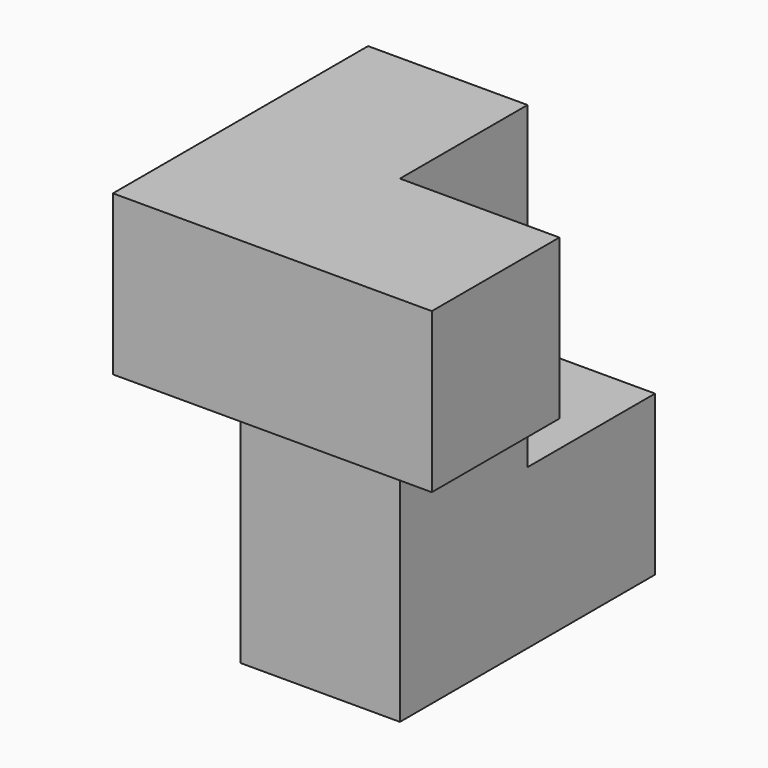
from build123d import *

# Parameters (mm, degrees)
F0_W     = 19.05
F0_H     = 38.1
F1_DEPTH = 19.05
F2_W     = 19.05
F2_H     = 19.05
F3_DEPTH = 38.1
F4_W     = 19.05
F4_H     = 19.05
F5_DEPTH = 19.05
F6_W     = 19.05
F6_H     = 19.05
F7_DEPTH = 19.05


with BuildPart() as f1:
    # F0 (on Top) → F1 (new body)
    with BuildSketch(Plane.XY):
        with Locations((9.525, 19.05)):
            Rectangle(F0_W, F0_H)
    extrude(amount=F1_DEPTH)

    # F2 (on face) → F3 (join)
    with BuildSketch(Plane.XY.offset(19.05)):
        with Locations((9.525, 9.525)):
            Rectangle(F2_W, F2_H)
    extrude(amount=F3_DEPTH)

    # F4 (on face) → F5 (join)
    with BuildSketch(Plane.XZ):
        with Locations((9.525, 47.625)):
            Rectangle(F4_W, F4_H)
    extrude(amount=F5_DEPTH)

    # F6 (on face) → F7 (join)
    with BuildSketch(Plane.YZ.offset(19.05)):
        with Locations((-9.525, 47.625)):
            Rectangle(F6_W, F6_H)
    extrude(amount=F7_DEPTH)


solid = f1.part
